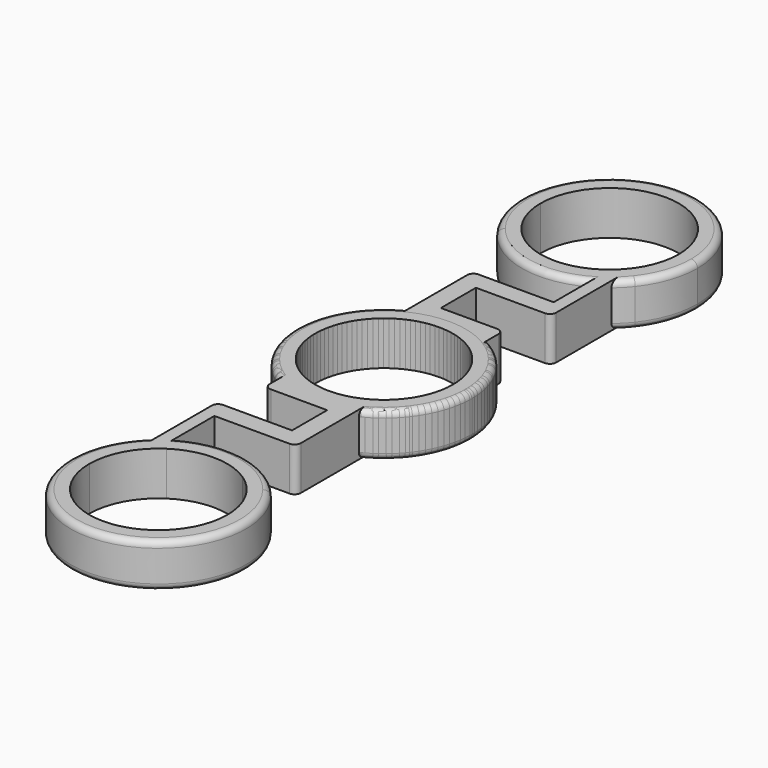
from build123d import *

# Parameters (mm, degrees)
F0_W     = 2
F0_H     = 7.6391158987
F0_W_2   = 3
F0_H_2   = 7
F1_DEPTH = 7
F2_R     = 1
F3_COUNT = 2


with BuildPart() as f1:
    # F0 (on Top) → F1 (new body)
    with BuildSketch(Plane.XY):
        with BuildLine():
            Line((11.01, 45), (11.01, 36.3362824945))
            ThreePointArc((11.01, 36.3362824945), (13.2387726284, 40.4157879294), (14.0100000362, 45))
            ThreePointArc((14.0100000362, 45), (-4.5842120706, 58.2387726284), (-11.01, 36.3362824945))
            Line((-11.01, 36.3362824945), (-11.01, 45))
            ThreePointArc((-11.01, 45), (0, 56.01), (11.01, 45))
        make_face()
        with BuildLine():
            Line((-11.01, 45), (-11.01, 36.3362824945))
            ThreePointArc((-11.01, 36.3362824945), (-2.6961738534, 31.2518820354), (6.9222057149, 32.8195579285))
            Line((6.9222057149, 32.8195579285), (-6.0777942851, 32.8195579285))
            Line((-6.0777942851, 32.8195579285), (-6.0777942851, 35.8195579285))
            ThreePointArc((-6.0777942851, 35.8195579285), (-9.6988817675, 39.7892618123), (-11.01, 45))
        make_face()
        with BuildLine():
            ThreePointArc((8.9222057149, 34.1984100153), (10.0232644807, 35.2115236034), (11.01, 36.3362824945))
            Line((11.01, 36.3362824945), (11.01, 45))
            ThreePointArc((11.01, 45), (9.6988817675, 39.7892618123), (6.0777942851, 35.8195579285))
            Line((6.0777942851, 35.8195579285), (8.9222057149, 35.8195579285))
            Line((8.9222057149, 35.8195579285), (8.9222057149, 34.1984100153))
        make_face()
        with BuildLine():
            ThreePointArc((6.9222057149, 32.8195579285), (7.9521476129, 33.4655537906), (8.9222057149, 34.1984100153))
            Line((8.9222057149, 34.1984100153), (8.9222057149, 35.8195579285))
            Line((8.9222057149, 35.8195579285), (6.0777942851, 35.8195579285))
            ThreePointArc((6.0777942851, 35.8195579285), (0, 33.99), (-6.0777942851, 35.8195579285))
            Line((-6.0777942851, 35.8195579285), (-6.0777942851, 32.8195579285))
            Line((-6.0777942851, 32.8195579285), (6.9222057149, 32.8195579285))
        make_face()
        with Locations((7.9222057149, 28.9999999792)):
            Rectangle(F0_W, F0_H)
        with BuildLine():
            Line((8.9222057149, 32.8195579285), (8.9222057149, 34.1984100153))
            ThreePointArc((8.9222057149, 34.1984100153), (7.9521476129, 33.4655537906), (6.9222057149, 32.8195579285))
            Line((6.9222057149, 32.8195579285), (8.9222057149, 32.8195579285))
        make_face()
        Polygon((-6.0777942851, 25.1804420298), (-6.0777942851, 22.1804420298), (-3.0777942851, 22.1804420298), (8.9222057149, 22.1804420298), (8.9222057149, 25.1804420298), (6.9222057149, 25.1804420298), align=None)
        with Locations((-4.5777942851, 18.6804420298)):
            Rectangle(F0_W_2, F0_H_2)
        with BuildLine():
            ThreePointArc((-6.0777942851, 12.623015354), (0.4766817098, 14.0018882494), (6.9222057149, 12.1804420298))
            Line((6.9222057149, 12.1804420298), (6.9222057149, 15.1804420298))
            Line((6.9222057149, 15.1804420298), (-3.0777942851, 15.1804420298))
            Line((-3.0777942851, 15.1804420298), (-6.0777942851, 15.1804420298))
            Line((-6.0777942851, 15.1804420298), (-6.0777942851, 12.623015354))
        make_face()
        with BuildLine():
            Line((-6.0777942851, 12.1804420298), (6.9222057149, 12.1804420298))
            ThreePointArc((6.9222057149, 12.1804420298), (0.4766817098, 14.0018882494), (-6.0777942851, 12.623015354))
            Line((-6.0777942851, 12.623015354), (-6.0777942851, 12.1804420298))
        make_face()
        with BuildLine():
            ThreePointArc((-11.01, 0), (0, 11.01), (11.01, 0))
            Line((11.01, 0), (11.01, 8.6637174469))
            ThreePointArc((11.01, 8.6637174469), (9.1368943519, 10.6206055196), (6.9222057149, 12.1804420298))
            Line((6.9222057149, 12.1804420298), (-6.0777942851, 12.1804420298))
            Line((-6.0777942851, 12.1804420298), (-6.0777942851, 12.623015354))
            ThreePointArc((-6.0777942851, 12.623015354), (-8.770244487, 10.9253334795), (-11.01, 8.6637174469))
            Line((-11.01, 8.6637174469), (-11.01, 0))
        make_face()
        with BuildLine():
            Line((11.01, 8.6637174469), (11.01, 0))
            ThreePointArc((11.01, 0), (0, -11.01), (-11.01, 0))
            Line((-11.01, 0), (-11.01, 8.6637174469))
            ThreePointArc((-11.01, 8.6637174469), (-4.584212037, -13.2387726017), (14.01, 0))
            ThreePointArc((14.01, 0), (13.2387726017, 4.584212037), (11.01, 8.6637174469))
        make_face()
    extrude(amount=F1_DEPTH)

    # F2
    f2_edges = [f1.edges().sort_by_distance(p)[0] for p in [
        (-0.476682, -14.001888, 7),
        (-0.476682, -14.001888, 0),
        (-6.077794, 25.180442, 3.5),
        (6.922206, 15.180442, 3.5),
        (8.922206, 22.180442, 3.5),
        (-7.952148, 56.534446, 7),
        (-7.952148, 56.534446, 0),
    ]]
    fillet(f2_edges, radius=F2_R)


with BuildPart() as f3_1:
    # F3: instance of F1
    add(f1.part.rotate(Axis((0, 0, 0), (0, 0, -1)), 1 * 360 / F3_COUNT))


solid = Compound([f1.part, f3_1.part])
